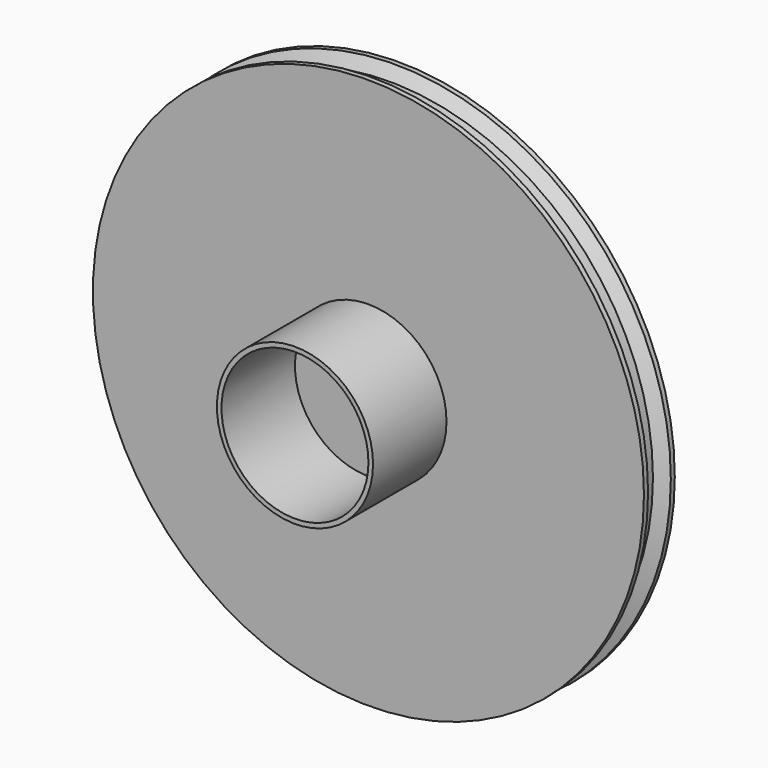
from build123d import *

# Parameters (mm, degrees)
F0_R     = 30
F1_DEPTH = 4.2
F2_R     = 8.5
F2_R_2   = 8
F3_DEPTH = 10


with BuildPart() as f1:
    # F0 (on Front) → F1 (new body)
    with BuildSketch(Plane.XZ):
        Circle(F0_R)
    extrude(amount=F1_DEPTH)

    # F2 (on face) → F3 (join)
    with BuildSketch(Plane.XZ.offset(4.2)):
        Circle(F2_R)
        Circle(F2_R_2, mode=Mode.SUBTRACT)
    extrude(amount=F3_DEPTH)

    # F4 (on Top) → F5 (revolve, cut)
    with BuildSketch(Plane.XY):
        Polygon((28.669611, -2.787452), (30.564366, -4.003254), (30.564366, -0.213743), (28.669611, -1.310707), align=None)
    revolve(axis=Axis((0, -2.633361, 0), (0, -1, 0)), mode=Mode.SUBTRACT)


solid = f1.part
